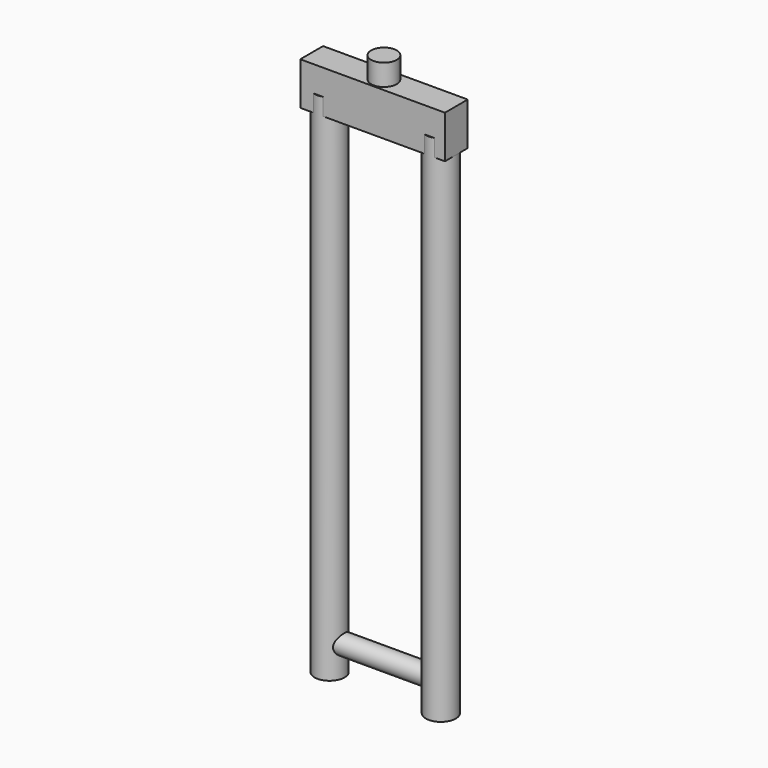
from build123d import *

# Parameters (mm, degrees)
F0_R          = 17.5
F1_DEPTH      = 600
F2_R          = 11.5
F3_DEPTH      = 77.4004622785
F3_DEPTH_BACK = 26.2177260049
F5_W          = 169
F5_H          = 33.3154127554
F6_DEPTH      = 50
F7_R          = 15
F8_DEPTH      = 25


with BuildPart() as f1:
    # F0 (on Top) → F1 (new body)
    with BuildSketch(Plane.XY):
        with Locations((-39.4086318632, 0)):
            Circle(F0_R)
    extrude(amount=F1_DEPTH)



with BuildPart() as f1b:
    # F0 (on Top) → F1, piece 2 (new body)
    with BuildSketch(Plane.XY):
        with Locations((90.5913681368, 0)):
            Circle(F0_R)
    extrude(amount=F1_DEPTH)


with BuildPart() as f1_1:
    add(f1.part)

    add(f1b.part)  # F3 merges F1b
    # F2 (on Right) → F3 (join, two sides)
    with BuildSketch(Plane.YZ) as f3_sk:
        with Locations((0, 34.3021339912)):
            Circle(F2_R)
    extrude(amount=F3_DEPTH)
    extrude(f3_sk.sketch, amount=-F3_DEPTH_BACK)

    # F5 (on offset) → F6 (join)
    with BuildSketch(Plane.XY.offset(630)):
        with Locations((24.0950547159, 0.109818764)):
            Rectangle(F5_W, F5_H)
    extrude(amount=-F6_DEPTH)

    # F7 (on face) → F8 (join)
    with BuildSketch(Plane.XY.offset(630)):
        with Locations((24.0950547159, 0)):
            Circle(F7_R)
    extrude(amount=F8_DEPTH)


solid = f1_1.part
